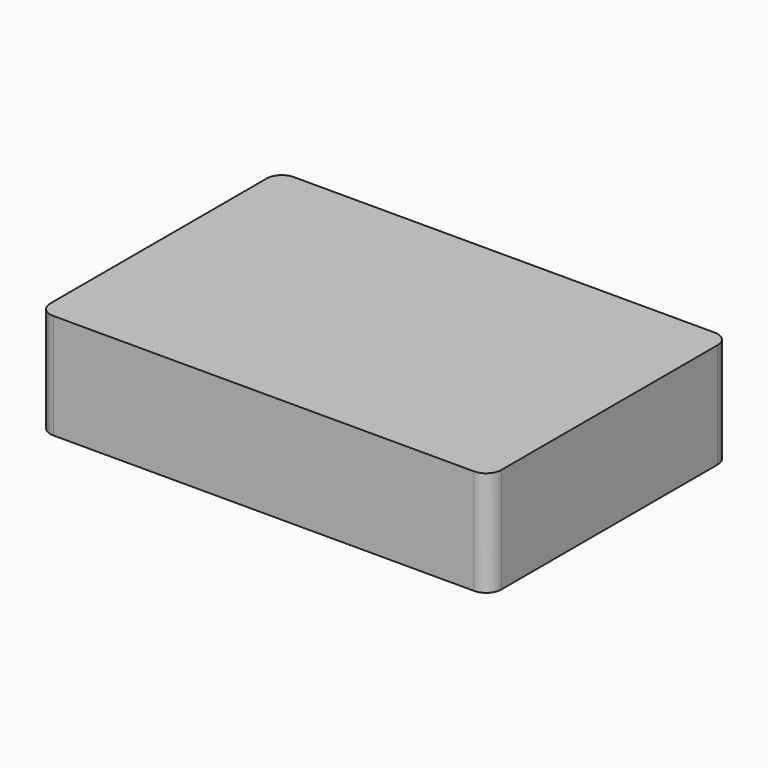
from build123d import *

# Parameters (mm, degrees)
F0_W     = 140
F0_H     = 5
F0_H_2   = 90
F1_DEPTH = 35
F2_DEPTH = 31
F3_R     = 5


with BuildPart() as f1:
    # F0 (on Top) → F1 (new body)
    with BuildSketch(Plane.XY):
        Polygon((-145, 0), (0, 0), (0, 5), (-5, 5), (-145, 5), align=None)
        Polygon((-150, 0), (-145, 0), (-145, 5), (-145, 95), (-145, 100), (-150, 100), align=None)
        Polygon((-5, 5), (0, 5), (0, 100), (-5, 100), (-5, 95), align=None)
        with Locations((-75, 97.5)):
            Rectangle(F0_W, F0_H)
        with Locations((-75, 50)):
            Rectangle(F0_W, F0_H_2)
    extrude(amount=F1_DEPTH)

    # F0 (on Top) → F2 (cut)
    with BuildSketch(Plane.XY):
        with Locations((-75, 50)):
            Rectangle(F0_W, F0_H_2)
    extrude(amount=F2_DEPTH, mode=Mode.SUBTRACT)

    # F3
    f3_edges = [f1.edges().sort_by_distance(p)[0] for p in [
        (0, 0, 17.5),
        (0, 100, 17.5),
        (-150, 100, 17.5),
        (-150, 0, 17.5),
    ]]
    fillet(f3_edges, radius=F3_R)


solid = f1.part
